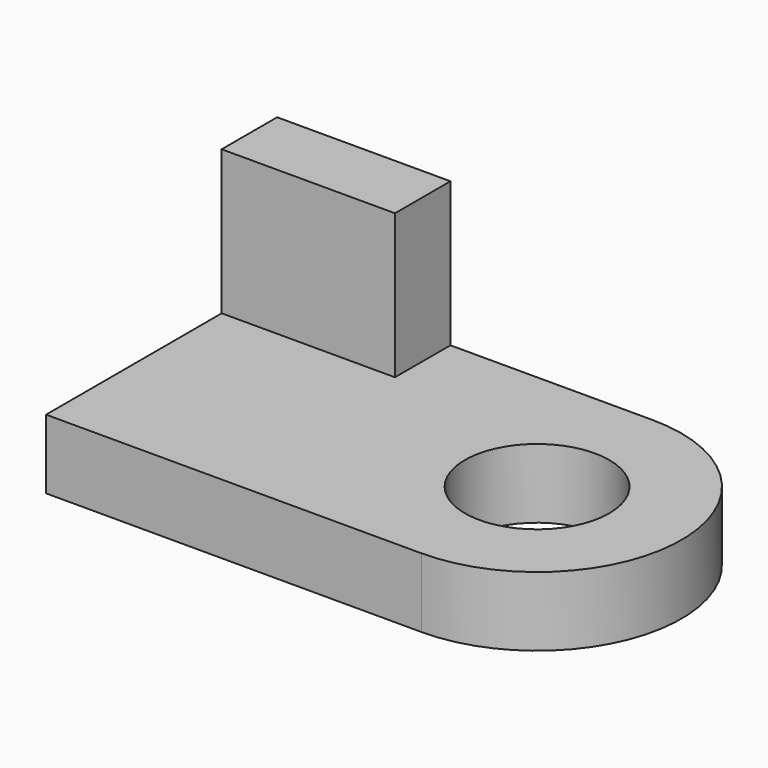
from build123d import *

# Parameters (mm, degrees)
F0_R     = 317.5
F1_DEPTH = 304.8
F2_W     = 762
F2_H     = 304.8
F3_DEPTH = 635


with BuildPart() as f1:
    # F0 (on Top) → F1 (new body)
    with BuildSketch(Plane.XY):
        with BuildLine():
            ThreePointArc((0, -1270), (635, -635), (0, 0))
            Line((0, 0), (-1651, 0))
            Line((-1651, 0), (-1651, -1270))
            Line((-1651, -1270), (0, -1270))
        make_face()
        with Locations((0, -635)):
            Circle(F0_R, mode=Mode.SUBTRACT)
    extrude(amount=F1_DEPTH)

    # F2 (on face) → F3 (join)
    with BuildSketch(Plane.XY.offset(304.8)):
        with Locations((-1270, -152.4)):
            Rectangle(F2_W, F2_H)
    extrude(amount=F3_DEPTH)


solid = f1.part
